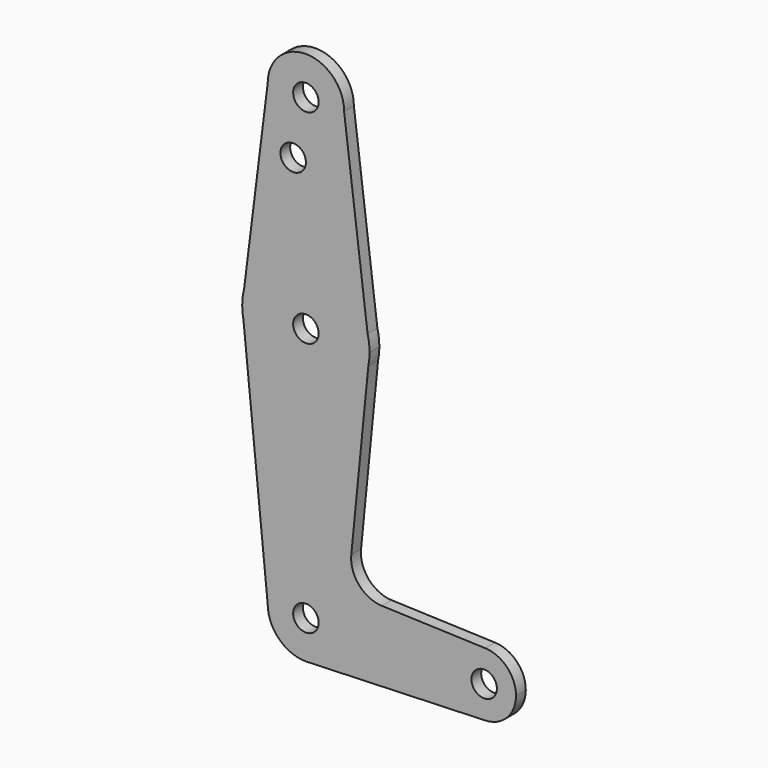
from build123d import *

# Parameters (mm, degrees)
F0_R     = 3.175
F1_DEPTH = 3.048


with BuildPart() as f1:
    # F0 (on Front) → F1 (new body)
    with BuildSketch(Plane.XZ):
        with BuildLine():
            ThreePointArc((-9.525, 114.3), (0, 104.775), (9.525, 114.3))
            ThreePointArc((9.525, 114.3), (0, 123.825), (-9.525, 114.3))
        make_face()
        with Locations((0, 114.3)):
            Circle(F0_R, mode=Mode.SUBTRACT)
        with BuildLine():
            Line((15.3865384615, 67.4076923077), (9.525, 114.3))
            ThreePointArc((9.525, 114.3), (0, 104.775), (-9.525, 114.3))
            Line((-9.525, 114.3), (-15.3865384615, 67.4076923077))
            ThreePointArc((-15.3865384615, 67.4076923077), (0, 79.375), (15.3865384615, 67.4076923077))
        make_face()
        with Locations((-3.175, 100.0252)):
            Circle(F0_R, mode=Mode.SUBTRACT)
        with BuildLine():
            Line((15.875, 63.5), (15.3865384615, 67.4076923077))
            ThreePointArc((15.3865384615, 67.4076923077), (0, 79.375), (-15.3865384615, 67.4076923077))
            Line((-15.3865384615, 67.4076923077), (-15.875, 63.5))
            Line((-15.875, 63.5), (-15.5606435644, 60.3564356436))
            ThreePointArc((-15.5606435644, 60.3564356436), (0.0115875772, 47.625004229), (15.5652161214, 60.3791552277))
            Line((15.5652161214, 60.3791552277), (15.875, 63.5))
        make_face()
        with Locations((0, 63.5)):
            Circle(F0_R, mode=Mode.SUBTRACT)
        with BuildLine():
            ThreePointArc((15.875, 63.5), (15.7524112928, 65.4690514116), (15.3865384615, 67.4076923077))
            Line((15.3865384615, 67.4076923077), (15.875, 63.5))
        make_face()
        with BuildLine():
            Line((-15.875, 63.5), (-15.3865384615, 67.4076923077))
            ThreePointArc((-15.3865384615, 67.4076923077), (-15.7524112928, 65.4690514116), (-15.875, 63.5))
        make_face()
        with BuildLine():
            ThreePointArc((15.5652161214, 60.3791552277), (15.7973641936, 61.9319089516), (15.875, 63.5))
            Line((15.875, 63.5), (15.5652161214, 60.3791552277))
        make_face()
        with BuildLine():
            Line((-15.5606435644, 60.3564356436), (-15.875, 63.5))
            ThreePointArc((-15.875, 63.5), (-15.7962153946, 61.9203784605), (-15.5606435644, 60.3564356436))
        make_face()
        with BuildLine():
            Line((11.3169489983, 17.5809879879), (15.5652161214, 60.3791552277))
            ThreePointArc((15.5652161214, 60.3791552277), (0.0115875772, 47.625004229), (-15.5606435644, 60.3564356436))
            Line((-15.5606435644, 60.3564356436), (-9.525, 0))
            ThreePointArc((-9.525, 0), (0, 9.525), (9.525, 0))
            ThreePointArc((9.525, 0), (6.9705567315, -6.4912990883), (0.6773435479, -9.500885786))
            Line((0.6773435479, -9.500885786), (44.7324052746, -7.9324746146))
            ThreePointArc((44.7324052746, -7.9324746146), (36.5125, 0), (44.7324052746, 7.9324746146))
            Line((44.7324052746, 7.9324746146), (18.9454118634, 8.8505214169))
            ThreePointArc((18.9454118634, 8.8505214169), (13.2415005535, 11.5645997894), (11.3169489983, 17.5809879879))
        make_face()
        with BuildLine():
            ThreePointArc((9.525, 0), (0, 9.525), (-9.525, 0))
            ThreePointArc((-9.525, 0), (-6.7351920908, -6.7351920908), (0, -9.525))
            Line((0, -9.525), (0.6773435479, -9.500885786))
            ThreePointArc((0.6773435479, -9.500885786), (6.9705567315, -6.4912990883), (9.525, 0))
        make_face()
        Circle(F0_R, mode=Mode.SUBTRACT)
        with BuildLine():
            Line((0.6773435479, -9.500885786), (0, -9.525))
            ThreePointArc((0, -9.525), (0.3388863295, -9.5189695375), (0.6773435479, -9.500885786))
        make_face()
        with BuildLine():
            ThreePointArc((52.3875, 0), (50.1616327839, 5.5119104847), (44.7324052746, 7.9324746146))
            ThreePointArc((44.7324052746, 7.9324746146), (36.5125, 0), (44.7324052746, -7.9324746146))
            ThreePointArc((44.7324052746, -7.9324746146), (50.1616327839, -5.5119104847), (52.3875, 0))
        make_face()
        with Locations((44.45, 0)):
            Circle(F0_R, mode=Mode.SUBTRACT)
    extrude(amount=F1_DEPTH)


solid = f1.part
